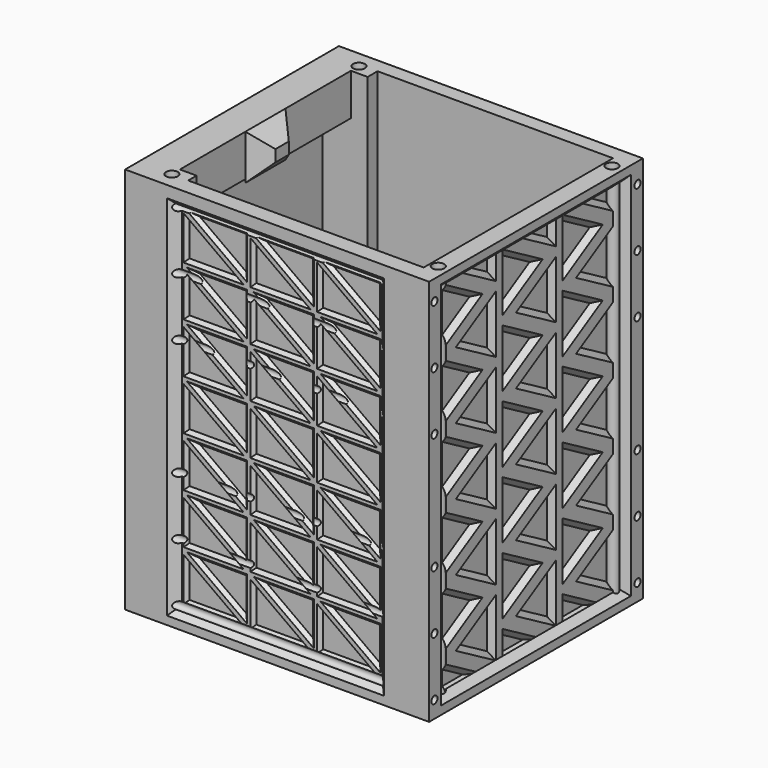
from build123d import *

# Parameters (mm, degrees)
SKETCH001_W     = 182
SKETCH001_H     = 160
PAD_DEPTH       = 232
POCKET_DEPTH    = 300
SKETCH003_W     = 140
SKETCH003_H     = 25
SKETCH003_W_2   = 141
SKETCH003_H_2   = 30
PAD001_DEPTH    = 20
SKETCH002_W     = 30
SKETCH002_H     = 25
SKETCH002_H_2   = 27
PAD002_DEPTH    = 10
PAD002_TAPER    = 45
SKETCH004_R     = 3.55
HOLE_DEPTH      = 232.001
SKETCH005_R     = 2.25
HOLE001_DEPTH   = 182.001
POCKET008_DEPTH = 3
POCKET008_TAPER = 45
SKETCH023_W     = 144
SKETCH023_H     = 224
POCKET009_DEPTH = 5
POCKET009_TAPER = 45
POCKET010_DEPTH = 2
POCKET010_TAPER = 45
SKETCH025_W     = 130
SKETCH025_H     = 220
POCKET011_DEPTH = 5
POCKET011_TAPER = 45
SKETCH027_W     = 130
SKETCH027_H     = 220
POCKET012_DEPTH = 5
POCKET012_TAPER = 45
POCKET013_DEPTH = 2
POCKET013_TAPER = 45


with BuildPart() as part:
    # Sketch001 → Pad (new body)
    with BuildSketch(Plane.XY):
        with Locations((91, 80)):
            Rectangle(SKETCH001_W, SKETCH001_H)
    extrude(amount=PAD_DEPTH)

    # Sketch → Pocket (cut)
    with BuildSketch(Plane.XY):
        Polygon((171, 151.400002), (30, 151.400002), (30, 144), (3, 144), (3, 16), (30, 16), (30, 9.7), (171, 9.7), align=None)
    extrude(amount=POCKET_DEPTH, mode=Mode.SUBTRACT)

    # Sketch003 → Pad001 (join)
    with BuildSketch(Plane.YZ):
        with Locations((80, 219.5)):
            Rectangle(SKETCH003_W, SKETCH003_H)
        with Locations((80.5, 15)):
            Rectangle(SKETCH003_W_2, SKETCH003_H_2)
    extrude(amount=PAD001_DEPTH)

    # Sketch002 → Pad002 (join)
    with BuildSketch(Plane.YZ.offset(20)):
        with Locations((80, 12.5)):
            Rectangle(SKETCH002_W, SKETCH002_H)
        with Locations((80, 218.5)):
            Rectangle(SKETCH002_W, SKETCH002_H_2)
    extrude(amount=PAD002_DEPTH, taper=PAD002_TAPER)

    # Sketch004 → Hole (cut, through all)
    with BuildSketch(Plane.XY):
        with Locations((20, 150)):
            Circle(SKETCH004_R)
        with Locations((20, 10)):
            Circle(SKETCH004_R)
        with Locations((175.5, 145)):
            Circle(SKETCH004_R)
        with Locations((175.5, 15)):
            Circle(SKETCH004_R)
    extrude(amount=HOLE_DEPTH, mode=Mode.SUBTRACT)

    # Sketch005 → Hole001 (cut, through all)
    with BuildSketch(Plane.YZ):
        with Locations((156, 220)):
            Circle(SKETCH005_R)
        with Locations((156, 185)):
            Circle(SKETCH005_R)
        with Locations((156, 150)):
            Circle(SKETCH005_R)
        with Locations((156, 80)):
            Circle(SKETCH005_R)
        with Locations((156, 45)):
            Circle(SKETCH005_R)
        with Locations((156, 10)):
            Circle(SKETCH005_R)
        with Locations((4, 220)):
            Circle(SKETCH005_R)
        with Locations((4, 185)):
            Circle(SKETCH005_R)
        with Locations((4, 150)):
            Circle(SKETCH005_R)
        with Locations((4, 80)):
            Circle(SKETCH005_R)
        with Locations((4, 45)):
            Circle(SKETCH005_R)
        with Locations((4, 10)):
            Circle(SKETCH005_R)
    extrude(amount=HOLE001_DEPTH, mode=Mode.SUBTRACT)

    # Sketch020 → Pocket008 (cut)
    with BuildSketch(Plane.YZ.offset(178)):
        Polygon((45, 206), (15, 223.320508), (15, 188.679492), align=None)
        Polygon((45, 166), (15, 183.320508), (15, 148.679492), align=None)
        Polygon((25, 186), (55, 168.679492), (55, 203.320508), align=None)
        Polygon((25, 146), (55, 128.679492), (55, 163.320508), align=None)
        Polygon((45, 126), (15, 143.320508), (15, 108.679492), align=None)
        Polygon((45, 86), (15, 103.320508), (15, 68.679492), align=None)
        Polygon((25, 106), (55, 88.679492), (55, 123.320508), align=None)
        Polygon((25, 66), (55, 48.679492), (55, 83.320508), align=None)
        Polygon((45, 46), (15, 63.320508), (15, 28.679492), align=None)
        Polygon((55, 43.320508), (25, 26), (55, 8.679492), align=None)
        Polygon((90, 206), (60, 223.320508), (60, 188.679492), align=None)
        Polygon((90, 166), (60, 183.320508), (60, 148.679492), align=None)
        Polygon((70, 186), (100, 168.679492), (100, 203.320508), align=None)
        Polygon((70, 146), (100, 128.679492), (100, 163.320508), align=None)
        Polygon((90, 126), (60, 143.320508), (60, 108.679492), align=None)
        Polygon((90, 86), (60, 103.320508), (60, 68.679492), align=None)
        Polygon((70, 106), (100, 88.679492), (100, 123.320508), align=None)
        Polygon((70, 66), (100, 48.679492), (100, 83.320508), align=None)
        Polygon((90, 46), (60, 63.320508), (60, 28.679492), align=None)
        Polygon((100, 43.320508), (70, 26), (100, 8.679492), align=None)
        Polygon((135, 206), (105, 223.320508), (105, 188.679492), align=None)
        Polygon((135, 166), (105, 183.320508), (105, 148.679492), align=None)
        Polygon((115, 186), (145, 168.679492), (145, 203.320508), align=None)
        Polygon((115, 146), (145, 128.679492), (145, 163.320508), align=None)
        Polygon((135, 126), (105, 143.320508), (105, 108.679492), align=None)
        Polygon((135, 86), (105, 103.320508), (105, 68.679492), align=None)
        Polygon((115, 106), (145, 88.679492), (145, 123.320508), align=None)
        Polygon((115, 66), (145, 48.679492), (145, 83.320508), align=None)
        Polygon((135, 46), (105, 63.320508), (105, 28.679492), align=None)
        Polygon((145, 43.320508), (115, 26), (145, 8.679492), align=None)
        Polygon((55, 226), (25, 226), (55, 208.679492), align=None)
        Polygon((100, 226), (70, 226), (100, 208.679492), align=None)
        Polygon((145, 226), (115, 226), (145, 208.679492), align=None)
        Polygon((90, 6), (60, 23.320508), (60, 6), align=None)
        Polygon((15, 6), (45, 6), (15, 23.320508), align=None)
        Polygon((105, 23.320508), (105, 6), (135, 6), align=None)
    extrude(amount=-POCKET008_DEPTH, taper=POCKET008_TAPER, mode=Mode.SUBTRACT)

    # Sketch023 → Pocket009 (cut)
    with BuildSketch(Plane.YZ.offset(183)):
        with Locations((80, 116)):
            Rectangle(SKETCH023_W, SKETCH023_H)
    extrude(amount=-POCKET009_DEPTH, taper=POCKET009_TAPER, mode=Mode.SUBTRACT)

    # Sketch024 → Pocket010 (cut)
    with BuildSketch(Plane(origin=(10, 5, 0), x_dir=(1, 0, 0), z_dir=(0, -1, 0))):
        Polygon((23, 219), (59, 219), (59, 193), align=None)
        Polygon((57, 191), (21, 191), (21, 217), align=None)
        Polygon((63, 219), (99, 219), (99, 193), align=None)
        Polygon((97, 191), (61, 191), (61, 217), align=None)
        Polygon((103, 219), (139, 219), (139, 193), align=None)
        Polygon((137, 191), (101, 191), (101, 217), align=None)
        Polygon((23, 189), (59, 189), (59, 163), align=None)
        Polygon((57, 161), (21, 161), (21, 187), align=None)
        Polygon((63, 189), (99, 189), (99, 163), align=None)
        Polygon((97, 161), (61, 161), (61, 187), align=None)
        Polygon((103, 189), (139, 189), (139, 163), align=None)
        Polygon((137, 161), (101, 161), (101, 187), align=None)
        Polygon((23, 159), (59, 159), (59, 133), align=None)
        Polygon((57, 131), (21, 131), (21, 157), align=None)
        Polygon((63, 159), (99, 159), (99, 133), align=None)
        Polygon((97, 131), (61, 131), (61, 157), align=None)
        Polygon((103, 159), (139, 159), (139, 133), align=None)
        Polygon((137, 131), (101, 131), (101, 157), align=None)
        Polygon((23, 129), (59, 129), (59, 103), align=None)
        Polygon((57, 101), (21, 101), (21, 127), align=None)
        Polygon((63, 129), (99, 129), (99, 103), align=None)
        Polygon((97, 101), (61, 101), (61, 127), align=None)
        Polygon((103, 129), (139, 129), (139, 103), align=None)
        Polygon((137, 101), (101, 101), (101, 127), align=None)
        Polygon((23, 99), (59, 99), (59, 73), align=None)
        Polygon((57, 71), (21, 71), (21, 97), align=None)
        Polygon((63, 99), (99, 99), (99, 73), align=None)
        Polygon((97, 71), (61, 71), (61, 97), align=None)
        Polygon((103, 99), (139, 99), (139, 73), align=None)
        Polygon((137, 71), (101, 71), (101, 97), align=None)
        Polygon((23, 69), (59, 69), (59, 43), align=None)
        Polygon((57, 41), (21, 41), (21, 67), align=None)
        Polygon((63, 69), (99, 69), (99, 43), align=None)
        Polygon((97, 41), (61, 41), (61, 67), align=None)
        Polygon((103, 69), (139, 69), (139, 43), align=None)
        Polygon((137, 41), (101, 41), (101, 67), align=None)
        Polygon((23, 39), (59, 39), (59, 13), align=None)
        Polygon((57, 11), (21, 11), (21, 37), align=None)
        Polygon((63, 39), (99, 39), (99, 13), align=None)
        Polygon((97, 11), (61, 11), (61, 37), align=None)
        Polygon((103, 39), (139, 39), (139, 13), align=None)
        Polygon((137, 11), (101, 11), (101, 37), align=None)
    extrude(amount=-POCKET010_DEPTH, taper=POCKET010_TAPER, mode=Mode.SUBTRACT)

    # Sketch025 → Pocket011 (cut)
    with BuildSketch(Plane.XZ):
        with Locations((90, 115)):
            Rectangle(SKETCH025_W, SKETCH025_H)
    extrude(amount=-POCKET011_DEPTH, taper=POCKET011_TAPER, mode=Mode.SUBTRACT)

    # Sketch027 → Pocket012 (cut)
    with BuildSketch(Plane.XZ.offset(-160)):
        with Locations((90, 115)):
            Rectangle(SKETCH027_W, SKETCH027_H)
    extrude(amount=POCKET012_DEPTH, taper=POCKET012_TAPER, mode=Mode.SUBTRACT)

    # Sketch026 → Pocket013 (cut)
    with BuildSketch(Plane(origin=(10, 155, 0), x_dir=(1, 0, 0), z_dir=(0, -1, 0))):
        Polygon((23, 219), (59, 219), (59, 193), align=None)
        Polygon((57, 191), (21, 191), (21, 217), align=None)
        Polygon((63, 219), (99, 219), (99, 193), align=None)
        Polygon((97, 191), (61, 191), (61, 217), align=None)
        Polygon((103, 219), (139, 219), (139, 193), align=None)
        Polygon((137, 191), (101, 191), (101, 217), align=None)
        Polygon((23, 189), (59, 189), (59, 163), align=None)
        Polygon((57, 161), (21, 161), (21, 187), align=None)
        Polygon((63, 189), (99, 189), (99, 163), align=None)
        Polygon((97, 161), (61, 161), (61, 187), align=None)
        Polygon((103, 189), (139, 189), (139, 163), align=None)
        Polygon((137, 161), (101, 161), (101, 187), align=None)
        Polygon((23, 159), (59, 159), (59, 133), align=None)
        Polygon((57, 131), (21, 131), (21, 157), align=None)
        Polygon((63, 159), (99, 159), (99, 133), align=None)
        Polygon((97, 131), (61, 131), (61, 157), align=None)
        Polygon((103, 159), (139, 159), (139, 133), align=None)
        Polygon((137, 131), (101, 131), (101, 157), align=None)
        Polygon((23, 129), (59, 129), (59, 103), align=None)
        Polygon((57, 101), (21, 101), (21, 127), align=None)
        Polygon((63, 129), (99, 129), (99, 103), align=None)
        Polygon((97, 101), (61, 101), (61, 127), align=None)
        Polygon((103, 129), (139, 129), (139, 103), align=None)
        Polygon((137, 101), (101, 101), (101, 127), align=None)
        Polygon((23, 99), (59, 99), (59, 73), align=None)
        Polygon((57, 71), (21, 71), (21, 97), align=None)
        Polygon((63, 99), (99, 99), (99, 73), align=None)
        Polygon((97, 71), (61, 71), (61, 97), align=None)
        Polygon((103, 99), (139, 99), (139, 73), align=None)
        Polygon((137, 71), (101, 71), (101, 97), align=None)
        Polygon((23, 69), (59, 69), (59, 43), align=None)
        Polygon((57, 41), (21, 41), (21, 67), align=None)
        Polygon((63, 69), (99, 69), (99, 43), align=None)
        Polygon((97, 41), (61, 41), (61, 67), align=None)
        Polygon((103, 69), (139, 69), (139, 43), align=None)
        Polygon((137, 41), (101, 41), (101, 67), align=None)
        Polygon((23, 39), (59, 39), (59, 13), align=None)
        Polygon((57, 11), (21, 11), (21, 37), align=None)
        Polygon((63, 39), (99, 39), (99, 13), align=None)
        Polygon((97, 11), (61, 11), (61, 37), align=None)
        Polygon((103, 39), (139, 39), (139, 13), align=None)
        Polygon((137, 11), (101, 11), (101, 37), align=None)
    extrude(amount=POCKET013_DEPTH, taper=POCKET013_TAPER, mode=Mode.SUBTRACT)


with BuildPart() as part_1:
    # Body placement: moved
    add(part.part.moved(Location((-80, -10, -116))))


solid = part_1.part
